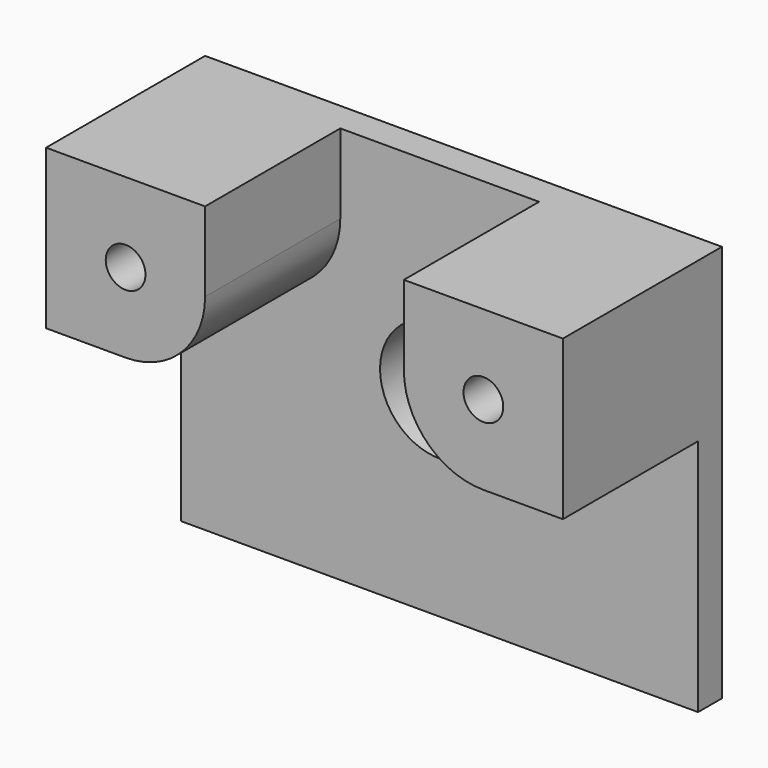
from build123d import *

# Parameters (mm, degrees)
F0_W     = 165.1
F0_H     = 127
F2_DEPTH = 9.525
F3_D     = 38.1
F4_W     = 50.8
F4_H     = 50.8
F5_DEPTH = 63.5
F6_R     = 25.4
F8_D     = 12.7
F8_DEPTH = 12.7
F8_TIP   = 3.8154649308


with BuildPart() as f2:
    # F0 (on Front) → F2 (new body)
    with BuildSketch(Plane.XZ):
        Rectangle(F0_W, F0_H)
    extrude(amount=F2_DEPTH)

    # F3 (through all)
    with Locations(Plane(origin=(0, 0, 0), x_dir=(1, 0, 0), z_dir=(0, 1, 0))):
        with Locations((0, 0)):
            Hole(F3_D / 2)

    # F4 (on Front) → F5 (join)
    with BuildSketch(Plane.XZ):
        with Locations((-57.15, 38.1)):
            Rectangle(F4_W, F4_H)
        with Locations((57.15, 38.1)):
            Rectangle(F4_W, F4_H)
    extrude(amount=F5_DEPTH)

    # F6
    f6_edges = [f2.edges().sort_by_distance(p)[0] for p in [
        (-31.75, -36.5125, 12.7),
        (31.75, -36.5125, 12.7),
    ]]
    fillet(f6_edges, radius=F6_R)

    # F8
    with Locations(Plane.XZ.offset(63.5)):
        with Locations((-57.15, 38.1), (57.15, 38.1)):
            Hole(F8_D / 2, depth=F8_DEPTH)
            with Locations((0, 0, -(F8_DEPTH + F8_TIP / 2))):  # 118° drill point
                Cone(0, F8_D / 2, F8_TIP, mode=Mode.SUBTRACT)


solid = f2.part
